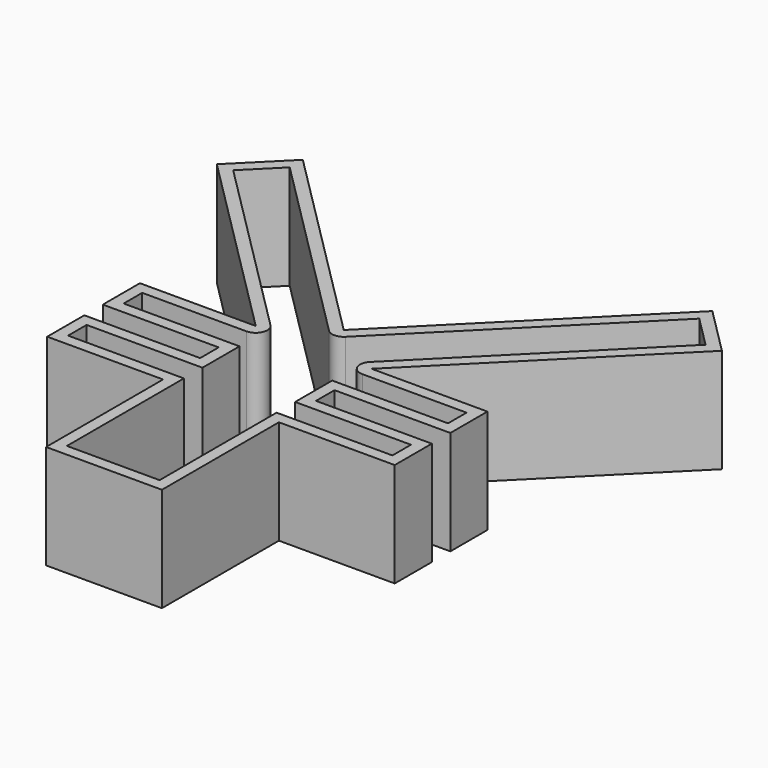
from build123d import *

# Parameters (mm, degrees)
F1_DEPTH = 12.7
F2_T     = -2.54
F3_DEPTH = 2.54
F4_R     = 2.54


with BuildPart() as f1:
    # F0 (on Top) → F1 (new body, symmetric)
    with BuildSketch(Plane.XY):
        Polygon((44.9012806053, 44.9012806053), (0, 0), (-44.9012806053, 44.9012806053), (-55.3788052983, 34.4237559124), (-12.7, -8.2550493859), (-38.1, -8.2550493859), (-38.1, -18.4150493859), (-12.7, -18.4150493859), (-12.7, -23.4950493859), (-38.1, -23.4950493859), (-38.1, -33.6550493859), (-12.7, -33.6550493859), (-12.7, -65.7183155417), (12.7, -65.7183155417), (12.7, -33.6550493859), (38.1, -33.6550493859), (38.1, -23.4950493859), (12.7, -23.4950493859), (12.7, -18.4150493859), (38.1, -18.4150493859), (38.1, -8.2550493859), (12.7, -8.2550493859), (55.3788052983, 34.4237559124), align=None)
    extrude(amount=F1_DEPTH, both=True)

    # F2
    f2_openings = [f1.faces().sort_by_distance(p)[0] for p in [
        (0, -9.817912, 12.7),
    ]]
    offset(amount=F2_T, openings=f2_openings, kind=Kind.INTERSECTION)

    # F3 (cut): a face of the model
    f3_faces = [f1.faces().sort_by_distance(p)[0] for p in [
        (0, -9.8179115299, -12.7),
    ]]
    extrude(f3_faces, amount=-F3_DEPTH, mode=Mode.SUBTRACT)

    # F4
    f4_edges = [f1.edges().sort_by_distance(p)[0] for p in [
        (-6.567898, -10.795049, 1.27),
        (6.567898, -10.795049, 1.27),
        (0, -3.592102, 1.27),
    ]]
    fillet(f4_edges, radius=F4_R)


solid = f1.part
